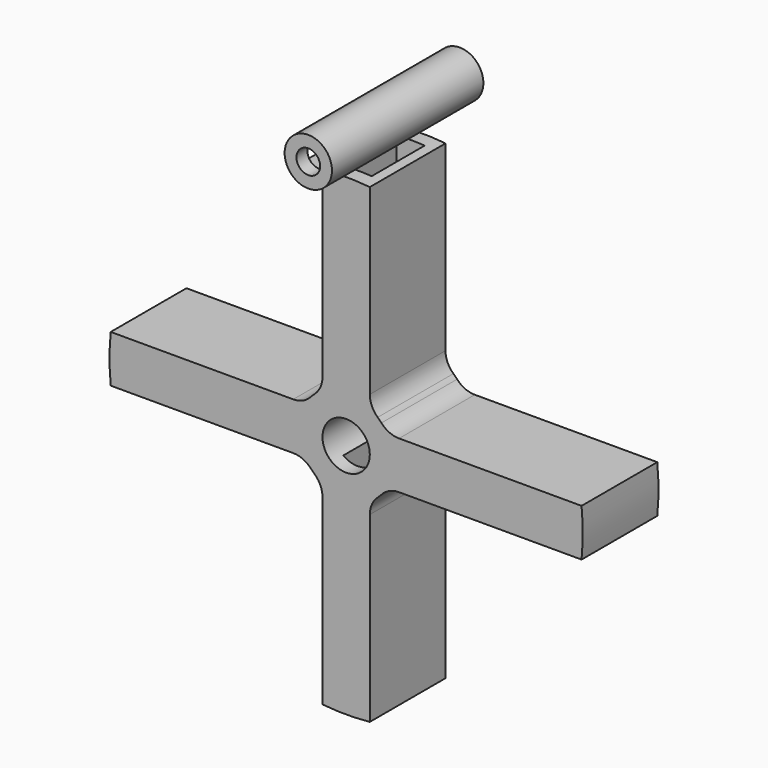
from build123d import *

# Parameters (mm, degrees)
F0_R     = 6.35
F1_DEPTH = 12.7
F2_W     = 7.62
F2_H     = 17.78
F3_DEPTH = 63.5
F4_R     = 6.35
F4_R_2   = 3.175
F5_DEPTH = 25.4
F6_W     = 17.78
F6_H     = 7.62
F7_DEPTH = 7.62


with BuildPart() as f1:
    # F0 (on Front) → F1 (new body, symmetric)
    with BuildSketch(Plane.XZ):
        with BuildLine():
            Line((6.35, 14.1990316571), (6.35, 63.1817022563))
            ThreePointArc((6.35, 63.1817022563), (0, 63.5), (-6.35, 63.1817022563))
            Line((-6.35, 63.1817022563), (-6.35, 14.1990316571))
            ThreePointArc((-6.35, 14.1990316571), (-6.9032695997, 11.6066550127), (-8.4666666667, 9.4660211047))
            ThreePointArc((-8.4666666667, 9.4660211047), (-8.9802561211, 8.9802561211), (-9.4660211047, 8.4666666667))
            ThreePointArc((-9.4660211047, 8.4666666667), (-11.6066550127, 6.9032695997), (-14.1990316571, 6.35))
            Line((-14.1990316571, 6.35), (-63.1817022563, 6.35))
            ThreePointArc((-63.1817022563, 6.35), (-63.5, 0), (-63.1817022563, -6.35))
            Line((-63.1817022563, -6.35), (-14.1990316571, -6.35))
            ThreePointArc((-14.1990316571, -6.35), (-11.6066550127, -6.9032695997), (-9.4660211047, -8.4666666667))
            ThreePointArc((-9.4660211047, -8.4666666667), (-8.9802561211, -8.9802561211), (-8.4666666667, -9.4660211047))
            ThreePointArc((-8.4666666667, -9.4660211047), (-6.9032695997, -11.6066550127), (-6.35, -14.1990316571))
            Line((-6.35, -14.1990316571), (-6.35, -63.1817022563))
            ThreePointArc((-6.35, -63.1817022563), (0, -63.5), (6.35, -63.1817022563))
            Line((6.35, -63.1817022563), (6.35, -14.1990316571))
            ThreePointArc((6.35, -14.1990316571), (6.9032695997, -11.6066550127), (8.4666666667, -9.4660211047))
            ThreePointArc((8.4666666667, -9.4660211047), (8.9802561211, -8.9802561211), (9.4660211047, -8.4666666667))
            ThreePointArc((9.4660211047, -8.4666666667), (11.6066550127, -6.9032695997), (14.1990316571, -6.35))
            Line((14.1990316571, -6.35), (63.1817022563, -6.35))
            ThreePointArc((63.1817022563, -6.35), (63.5, 0), (63.1817022563, 6.35))
            Line((63.1817022563, 6.35), (14.1990316571, 6.35))
            ThreePointArc((14.1990316571, 6.35), (11.6066550127, 6.9032695997), (9.4660211047, 8.4666666667))
            ThreePointArc((9.4660211047, 8.4666666667), (8.9802561211, 8.9802561211), (8.4666666667, 9.4660211047))
            ThreePointArc((8.4666666667, 9.4660211047), (6.9032695997, 11.6066550127), (6.35, 14.1990316571))
        make_face()
        Circle(F0_R, mode=Mode.SUBTRACT)
    extrude(amount=F1_DEPTH, both=True)

    # F2 (on Top) → F3 (cut, symmetric)
    with BuildSketch(Plane.XY):
        Rectangle(F2_W, F2_H)
    extrude(amount=F3_DEPTH, both=True, mode=Mode.SUBTRACT)


with BuildPart() as f5:
    # F4 (on Front) → F5 (new body, symmetric)
    with BuildSketch(Plane.XZ):
        with Locations((0, 72.2670927644)):
            Circle(F4_R)
        with Locations((0, 72.2670927644)):
            Circle(F4_R_2, mode=Mode.SUBTRACT)
    extrude(amount=F5_DEPTH, both=True)

    # F6 (on Right) → F7 (cut)
    with BuildSketch(Plane.YZ):
        with Locations((-12.8212214305, 72.444621799)):
            Rectangle(F6_W, F6_H)
    extrude(amount=-F7_DEPTH, mode=Mode.SUBTRACT)


solid = Compound([f1.part, f5.part])
